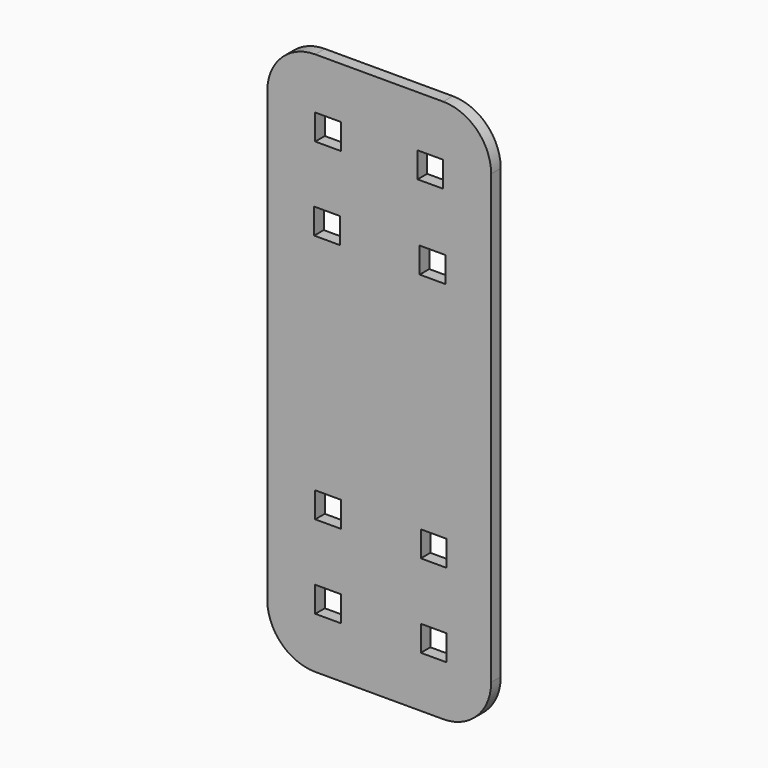
from build123d import *

# Parameters (mm, degrees)
F0_W     = 10.16
F0_H     = 10.16
F1_DEPTH = 4.7625


with BuildPart() as f1:
    # F0 (on Front) → F1 (new body)
    with BuildSketch(Plane.XZ):
        with BuildLine():
            Line((25.4, 107.95), (-25.4, 107.95))
            ThreePointArc((-25.4, 107.95), (-38.870384, 102.370384), (-44.45, 88.9))
            Line((-44.45, 88.9), (-44.45, -88.9))
            ThreePointArc((-44.45, -88.9), (-38.870384, -102.370384), (-25.4, -107.95))
            Line((-25.4, -107.95), (25.4, -107.95))
            ThreePointArc((25.4, -107.95), (38.870384, -102.370384), (44.45, -88.9))
            Line((44.45, -88.9), (44.45, 88.9))
            ThreePointArc((44.45, 88.9), (38.870384, 102.370384), (25.4, 107.95))
        make_face()
        with Locations((-20.32, -82.55)):
            Rectangle(F0_W, F0_H, mode=Mode.SUBTRACT)
        with Locations((-20.32, -49.53)):
            Rectangle(F0_W, F0_H, mode=Mode.SUBTRACT)
        with Locations((21.59, -82.55)):
            Rectangle(F0_W, F0_H, mode=Mode.SUBTRACT)
        with Locations((21.59, -49.53)):
            Rectangle(F0_W, F0_H, mode=Mode.SUBTRACT)
        with Locations((-20.737806, 49.53)):
            Rectangle(F0_W, F0_H, mode=Mode.SUBTRACT)
        with Locations((-20.32, 82.55)):
            Rectangle(F0_W, F0_H, mode=Mode.SUBTRACT)
        with Locations((21.172194, 49.53)):
            Rectangle(F0_W, F0_H, mode=Mode.SUBTRACT)
        with Locations((20.32, 82.55)):
            Rectangle(F0_W, F0_H, mode=Mode.SUBTRACT)
    extrude(amount=F1_DEPTH)


solid = f1.part
